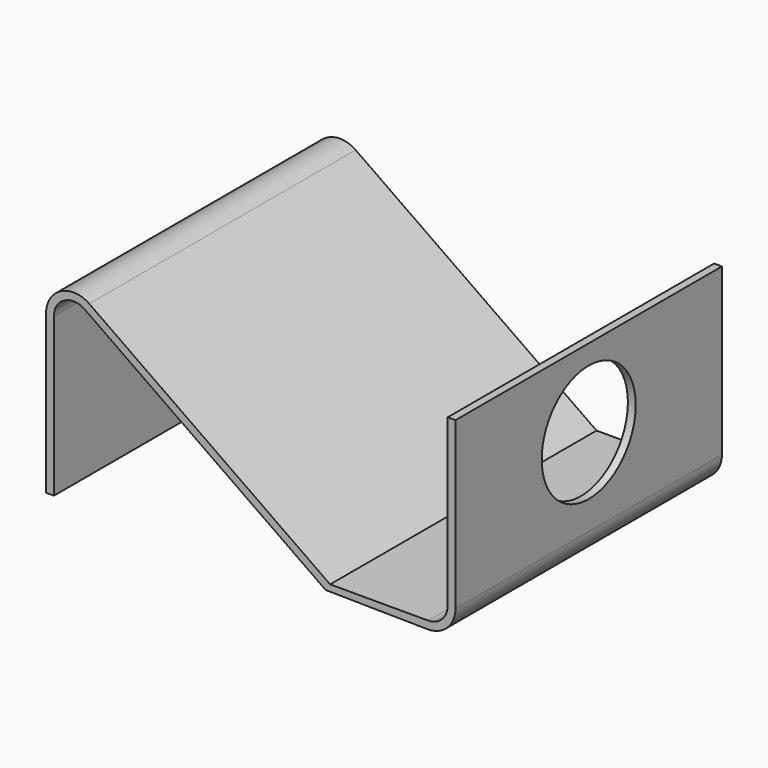
from build123d import *

# Parameters (mm, degrees)
F1_DEPTH = 21.59
F2_R     = 3.81
F3_DEPTH = 0.508


with BuildPart() as f1:
    # F0 (on Front) → F1 (new body)
    with BuildSketch(Plane.XZ):
        with BuildLine():
            Line((-16.559356, -0.230847), (-16.051356, -0.230847))
            Line((-16.051356, -0.230847), (-16.051356, 10.011762))
            ThreePointArc((-16.051356, 10.011762), (-15.367777, 11.138266), (-14.052914, 11.052085))
            Line((-14.052914, 11.052085), (1.563488, 0.117363))
            Line((1.563488, 0.117363), (8.204864, 0.025492))
            ThreePointArc((8.204864, 0.025492), (9.4621, 0.546256), (9.982864, 1.803492))
            Line((9.982864, 1.803492), (9.982864, 12.546651))
            Line((9.982864, 12.546651), (9.474864, 12.546651))
            Line((9.474864, 12.546651), (9.474864, 1.803492))
            ThreePointArc((9.474864, 1.803492), (9.10289, 0.905467), (8.204864, 0.533492))
            Line((8.204864, 0.533492), (1.854864, 0.533492))
            Line((1.854864, 0.533492), (-13.761537, 11.468214))
            ThreePointArc((-13.761537, 11.468214), (-15.602345, 11.588867), (-16.559356, 10.011762))
            Line((-16.559356, 10.011762), (-16.559356, -0.230847))
        make_face()
    extrude(amount=F1_DEPTH)

    # F2 (on face) → F3 (cut, through all)
    with BuildSketch(Plane.YZ.offset(9.982864)):
        with Locations((-10.795, 7.466651)):
            Circle(F2_R)
    extrude(amount=-F3_DEPTH, mode=Mode.SUBTRACT)


solid = f1.part
